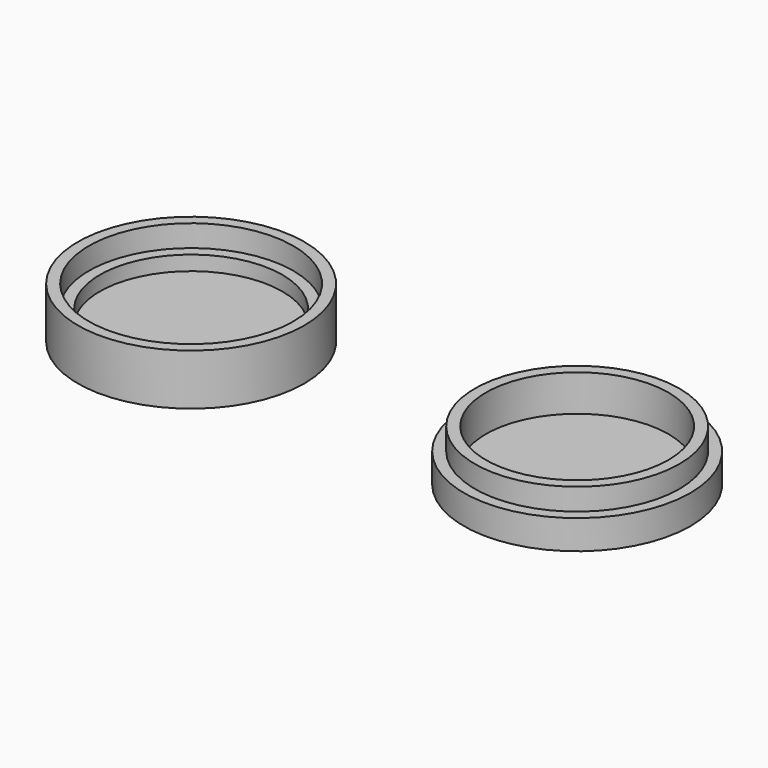
from build123d import *

# Parameters (mm, degrees)
F0_R     = 15.5
F0_R_2   = 12.5
F1_DEPTH = 7
F2_R     = 12.5
F3_DEPTH = 2
F4_R     = 14
F4_R_2   = 12.5
F4_R_3   = 15.5
F5_DEPTH = 3
F6_R     = 15.5
F6_R_2   = 14
F7_DEPTH = 3


with BuildPart() as f1:
    # F0 (on Top) → F1 (new body)
    with BuildSketch(Plane.XY):
        with Locations((-52.846339, 0)):
            Circle(F0_R)
        with Locations((-52.846339, 0)):
            Circle(F0_R_2, mode=Mode.SUBTRACT)
        Circle(F0_R)
        Circle(F0_R_2, mode=Mode.SUBTRACT)
    extrude(amount=F1_DEPTH)

    # F2 (on Top) → F3 (join)
    with BuildSketch(Plane.XY):
        with Locations((-52.846339, 0)):
            Circle(F2_R)
        Circle(F2_R)
    extrude(amount=F3_DEPTH)

    # F4 (on face) → F5 (cut)
    with BuildSketch(Plane.XY.offset(7)):
        with Locations((-52.846339, 0)):
            Circle(F4_R)
        with Locations((-52.846339, 0)):
            Circle(F4_R_2, mode=Mode.SUBTRACT)
        Circle(F4_R_3)
        Circle(F4_R, mode=Mode.SUBTRACT)
    extrude(amount=-F5_DEPTH, mode=Mode.SUBTRACT)

    # F6 (on face) → F7 (cut)
    with BuildSketch(Plane.XY.offset(7)):
        Circle(F6_R)
        Circle(F6_R_2, mode=Mode.SUBTRACT)
    extrude(amount=-F7_DEPTH, mode=Mode.SUBTRACT)


solid = f1.part
